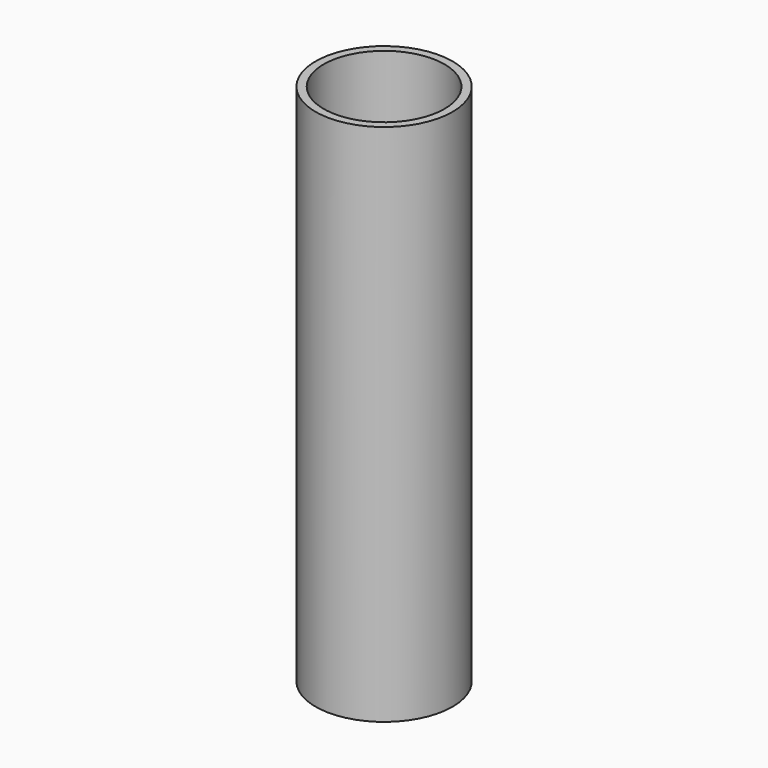
from build123d import *

# Parameters (mm, degrees)
SKETCH020_R     = 8.5
PAD013_DEPTH    = 65
SKETCH022_R     = 7.5
POCKET001_DEPTH = 85
SKETCH_R        = 7
POCKET_DEPTH    = 70


with BuildPart() as part:
    # Sketch020 → Pad013 (new body)
    with BuildSketch(Plane.XY):
        Circle(SKETCH020_R)
    extrude(amount=PAD013_DEPTH)

    # Sketch022 (on Face3 of Pad013) → Pocket001 (cut)
    with BuildSketch(Plane.XY.offset(65)):
        Circle(SKETCH022_R)
    extrude(amount=-POCKET001_DEPTH, mode=Mode.SUBTRACT)

    # Sketch (on Face3 of Pad013) → Pocket (cut)
    with BuildSketch(Plane.XY.offset(65)):
        Circle(SKETCH_R)
    extrude(amount=-POCKET_DEPTH, mode=Mode.SUBTRACT)


with BuildPart() as part_1:
    # Body009 placement: moved
    add(part.part.moved(Location((-267, 14.5, -82))))


solid = part_1.part
